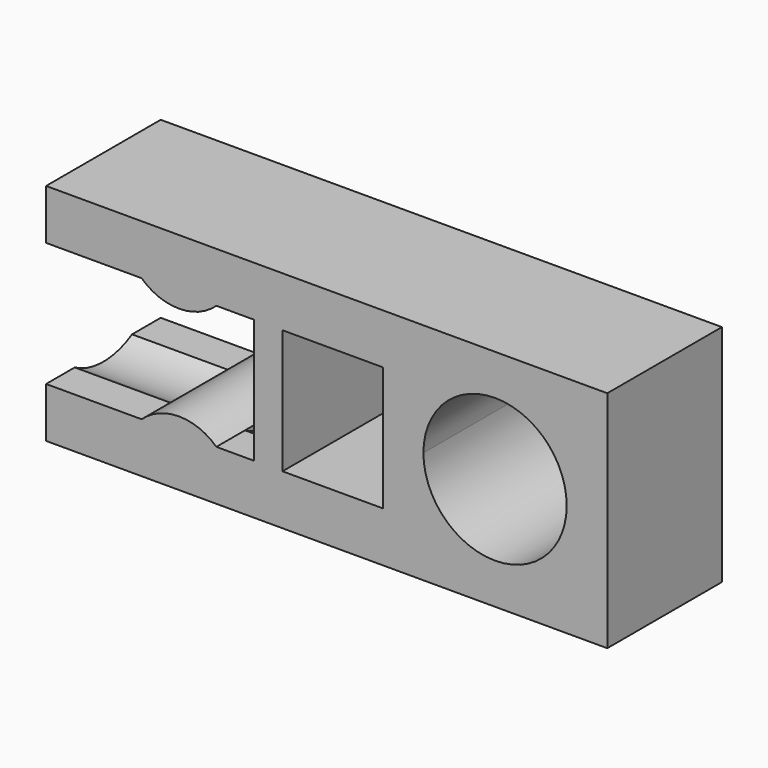
from build123d import *

# Parameters (mm, degrees)
F1_DEPTH = 3
F3_DEPTH = 8.7
F5_DEPTH = 6


with BuildPart() as f1:
    # F0 (on Front) → F1 (new body, symmetric)
    with BuildSketch(Plane.XZ):
        with BuildLine():
            Line((-8.9, 0), (-10.1, 0))
            Line((-10.1, 0), (-10.1, -2.6))
            Line((-10.1, -2.6), (-11.67, -2.6))
            Line((-11.67, -2.6), (-14.8, -2.6))
            Line((-14.8, -2.6), (-18.8, -2.6))
            Line((-18.8, -2.6), (-18.8, -4.7))
            Line((-18.8, -4.7), (0, -4.7))
            Line((0, -4.7), (4.7, -4.7))
            Line((4.7, -4.7), (4.7, 0))
            Line((4.7, 0), (3, 0))
            ThreePointArc((3, 0), (2.1213203436, -2.1213203436), (0, -3))
            ThreePointArc((0, -3), (-2.1213203436, -2.1213203436), (-3, 0))
            Line((-3, 0), (-4.7, 0))
            Line((-4.7, 0), (-4.7, -2.6))
            Line((-4.7, -2.6), (-8.9, -2.6))
            Line((-8.9, -2.6), (-8.9, 0))
        make_face()
    extrude(amount=F1_DEPTH, both=True)

    # F2 (on face) → F3 (cut, through all)
    with BuildSketch(Plane(origin=(-18.8, 0, 0), x_dir=(0, -1, 0), z_dir=(-1, 0, 0))):
        with BuildLine():
            Line((1.5, -2.6), (-1.5, -2.6))
            ThreePointArc((-1.5, -2.6), (0, -3.0019237886), (1.5, -2.6))
        make_face()
    extrude(amount=-F3_DEPTH, mode=Mode.SUBTRACT)

    # F4 (on face) → F5 (join, through all)
    with BuildSketch(Plane(origin=(0, 3, 0), x_dir=(-1, 0, 0), z_dir=(0, 1, 0))):
        with BuildLine():
            ThreePointArc((14.8, -2.6), (13.235, -1.9854598779), (11.67, -2.6))
            Line((11.67, -2.6), (11.67, -4.7))
            Line((11.67, -4.7), (14.8, -4.7))
            Line((14.8, -4.7), (14.8, -2.6))
        make_face()
    extrude(amount=-F5_DEPTH)

    # F6: F1 across plane


with BuildPart() as f1_1:
    add(f1.part)
    add(f1.part.mirror(Plane.XY))


solid = f1_1.part
